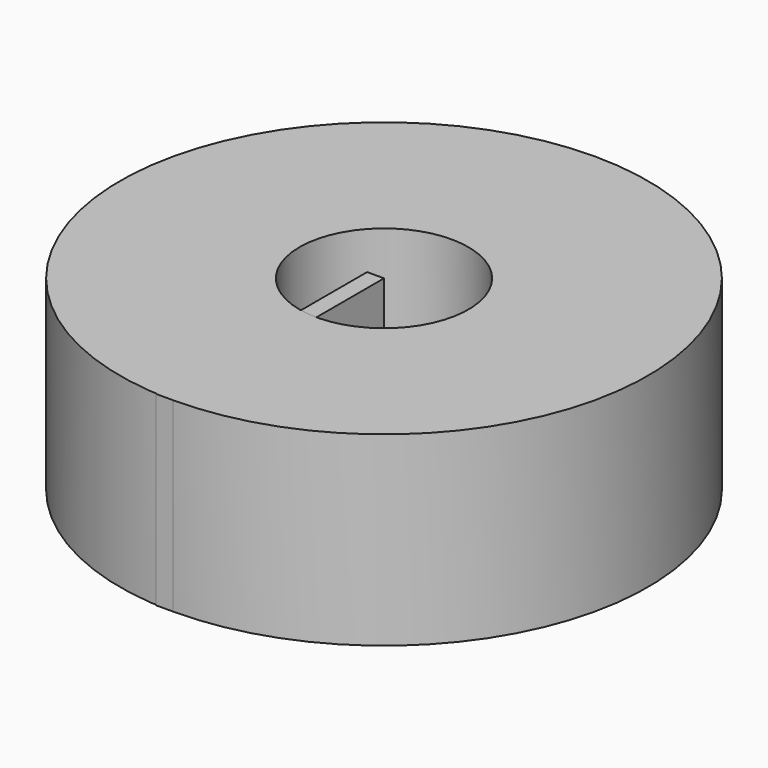
from build123d import *

# Parameters (mm, degrees)
F0_W      = 119.0205290914
F0_H      = 83.936393261
F1_DEPTH  = 7.62
F1_FACE_W = 119.0205290914
F1_FACE_H = 83.936393261
F4_D      = 76.2


with BuildPart() as f1:
    # F0 (on Right) → F1 (new body)
    with BuildSketch(Plane.YZ):
        with Locations((1.9519850612, -0.4941523075)):
            Rectangle(F0_W, F0_H)
    extrude(amount=F1_DEPTH)


with BuildPart() as f2:
    # F1_face (on face) → F2 (revolve)
    with BuildSketch(Plane(origin=(7.62, 1.9519850612, -0.4941523075), x_dir=(0, 1, 0), z_dir=(1, 0, 0))):
        Rectangle(F1_FACE_W, F1_FACE_H)
    revolve(axis=Axis((7.62, 61.4622496068, -0.4941523075), (0, 0, -1)))

    # F4 (through all)
    with Locations(Plane.XY.offset(41.474044323)):
        with Locations((7.62, 61.4622496068)):
            Hole(F4_D / 2)


solid = Compound([f1.part, f2.part])
